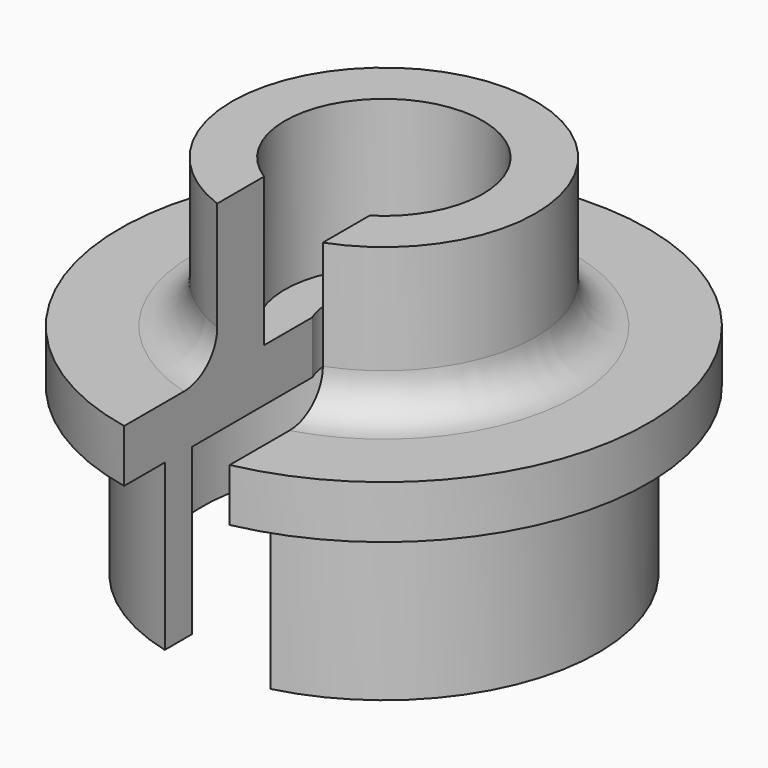
from build123d import *

# Parameters (mm, degrees)
PAD_DEPTH    = 5
PAD001_DEPTH = 1.6
PAD002_DEPTH = 4.5
FILLET_R     = 1.2


with BuildPart() as part:
    # Sketch → Pad (new body)
    with BuildSketch(Plane.XY):
        with BuildLine():
            ThreePointArc((1.6, -6.3), (0, 6.5), (-1.6, -6.3))
            Line((-1.6, -6.3), (-1.6, -5.262129))
            ThreePointArc((1.6, -5.262129), (0, 5.5), (-1.6, -5.262129))
            Line((1.6, -6.3), (1.6, -5.262129))
        make_face()
    extrude(amount=PAD_DEPTH)

    # Sketch001 (on Face6 of Pad) → Pad001 (join)
    with BuildSketch(Plane.XY.offset(5)):
        with BuildLine():
            ThreePointArc((1.6, -7.838367), (0, 8), (-1.6, -7.838367))
            Line((-1.6, -7.838367), (-1.6, -0.708872))
            ThreePointArc((1.6, -0.708872), (0, 1.75), (-1.6, -0.708872))
            Line((1.6, -7.838367), (1.6, -0.708872))
        make_face()
    extrude(amount=PAD001_DEPTH)

    # Sketch002 (on Face5 of Pad001) → Pad002 (join)
    with BuildSketch(Plane.XY.offset(6.6)):
        with BuildLine():
            ThreePointArc((1.6, -4.312772), (0, 4.6), (-1.6, -4.312772))
            Line((-1.6, -2.537716), (-1.6, -4.312772))
            ThreePointArc((1.6, -2.537716), (0, 3), (-1.6, -2.537716))
            Line((1.6, -2.537716), (1.6, -4.312772))
        make_face()
    extrude(amount=PAD002_DEPTH)

    # Fillet
    fillet_edges = [part.edges().sort_by_distance(p)[0] for p in [
        (0, 4.6, 6.6),
    ]]
    fillet(fillet_edges, radius=FILLET_R)


solid = part.part
